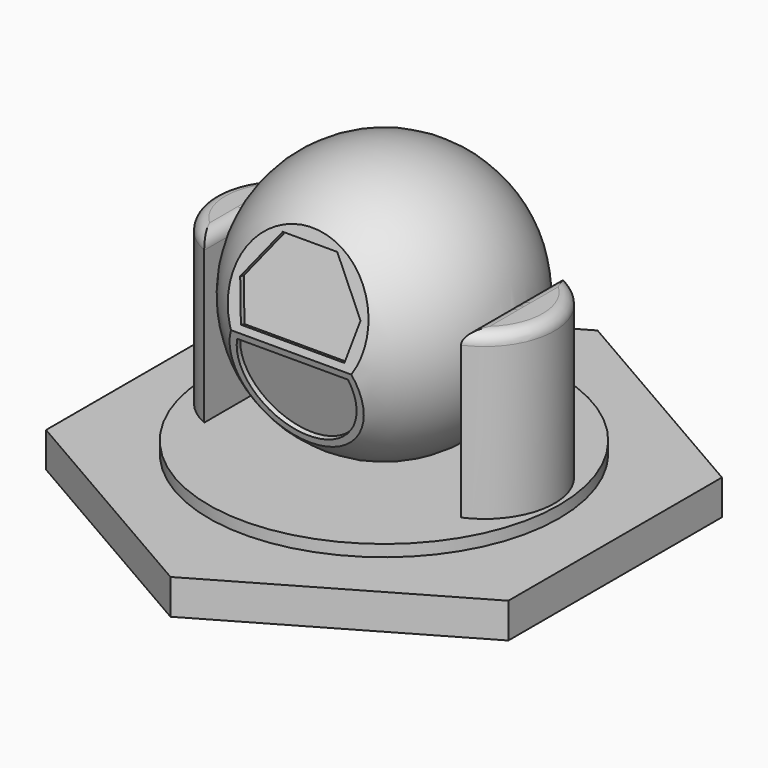
from build123d import *

# Parameters (mm, degrees)
F0_R      = 9.525
F1_DEPTH  = 1.905
F2_DEPTH  = 11.43
F6_R      = 0.635
F7_DEPTH  = 2.54
F10_W     = 10.16
F10_H     = 1.27
F11_DEPTH = 3.81
F12_W     = 10.16
F12_H     = 1.905
F13_DEPTH = 3.81
F15_DEPTH = 0.254
F17_DEPTH = 0.254


with BuildPart() as f1:
    # F0 (on Top) → F1 (new body)
    with BuildSketch(Plane.XY):
        Polygon((12.573, 7.2590249345), (0, 14.518049869), (-12.573, 7.2590249345), (-12.573, -7.2590249345), (0, -14.518049869), (12.573, -7.2590249345), align=None)
        Circle(F0_R, mode=Mode.SUBTRACT)
        Circle(F0_R)
        with BuildLine():
            ThreePointArc((-6.985, -3.4925), (-9.2723234913, 0), (-6.985, 3.4925))
            Line((-6.985, 3.4925), (-6.985, -3.4925))
        make_face(mode=Mode.SUBTRACT)
        with BuildLine():
            Line((6.985, -3.4925), (6.985, 3.4925))
            ThreePointArc((6.985, 3.4925), (9.2723234913, 0), (6.985, -3.4925))
        make_face(mode=Mode.SUBTRACT)
    extrude(amount=F1_DEPTH)

    # F0 (on Top) → F2 (join)
    with BuildSketch(Plane.XY):
        with BuildLine():
            Line((-6.985, -3.4925), (-6.985, 3.4925))
            ThreePointArc((-6.985, 3.4925), (-9.2723234913, 0), (-6.985, -3.4925))
        make_face()
        with BuildLine():
            ThreePointArc((6.985, -3.4925), (9.2723234913, 0), (6.985, 3.4925))
            Line((6.985, 3.4925), (6.985, -3.4925))
        make_face()
    extrude(amount=F2_DEPTH)

    # F4 (on offset) → F5 (revolve)
    with BuildSketch(Plane.XY.offset(9.525)):
        with BuildLine():
            ThreePointArc((0, 7.112), (-7.112, 0), (0, -7.112))
            Line((0, -7.112), (0, 7.112))
        make_face()
    revolve(axis=Axis((0, 0, 9.525), (0, 1, 0)))

    # F6
    f6_edges = [f1.edges().sort_by_distance(p)[0] for p in [
        (-6.985, 0, 11.43),
        (-9.272323, 0, 11.43),
        (6.985, 0, 11.43),
        (9.272323, 0, 11.43),
    ]]
    fillet(f6_edges, radius=F6_R)

    # F0 (on Top) → F7 (join)
    with BuildSketch(Plane.XY):
        Circle(F0_R)
        with BuildLine():
            ThreePointArc((-6.985, -3.4925), (-9.2723234913, 0), (-6.985, 3.4925))
            Line((-6.985, 3.4925), (-6.985, -3.4925))
        make_face(mode=Mode.SUBTRACT)
        with BuildLine():
            Line((6.985, -3.4925), (6.985, 3.4925))
            ThreePointArc((6.985, 3.4925), (9.2723234913, 0), (6.985, -3.4925))
        make_face(mode=Mode.SUBTRACT)
    extrude(amount=F7_DEPTH)

    # F10 (on line) → F11 (cut, symmetric)
    with BuildSketch(Plane(origin=(0, -2.38125, 8.8869459855), x_dir=(1, 0, 0), z_dir=(0, -0.2588190451, 0.9659258263))):
        with Locations((0, -4.318)):
            Rectangle(F10_W, F10_H)
    extrude(amount=F11_DEPTH, both=True, mode=Mode.SUBTRACT)

    # F12 (on line) → F13 (cut, symmetric)
    with BuildSketch(Plane(origin=(0, 2.38125, 8.8869459855), x_dir=(1, 0, 0), z_dir=(0, -0.2588190451, -0.9659258263))):
        with Locations((0, 9.4615)):
            Rectangle(F12_W, F12_H)
    extrude(amount=F13_DEPTH, both=True, mode=Mode.SUBTRACT)

    # F14 (on face) → F15 (cut)
    with BuildSketch(Plane(origin=(0, -3.5575048182, -0.9532305431), x_dir=(1, 0, 0), z_dir=(0, -0.9659258263, -0.2588190451))):
        with BuildLine():
            Line((3.0137271476, 10.2578568757), (-3.0137271476, 10.2578568757))
            ThreePointArc((-3.0137271476, 10.2578568757), (0, 6.0065940348), (3.0137271476, 10.2578568757))
        make_face()
    extrude(amount=-F15_DEPTH, mode=Mode.SUBTRACT)

    # F16 (on face) → F17 (cut)
    with BuildSketch(Plane(origin=(0, -8.2190628559, 2.2022912548), x_dir=(1, 0, 0), z_dir=(0, -0.9659258263, 0.2588190451))):
        Polygon((-3.2726924104, 9.7850203216), (-2.8154924104, 7.7530203216), (2.8154924104, 7.7530203216), (3.2726924104, 9.7850203216), (1.482303227, 12.3142628983), (-1.482303227, 12.3142628983), align=None)
    extrude(amount=-F17_DEPTH, mode=Mode.SUBTRACT)


solid = f1.part
